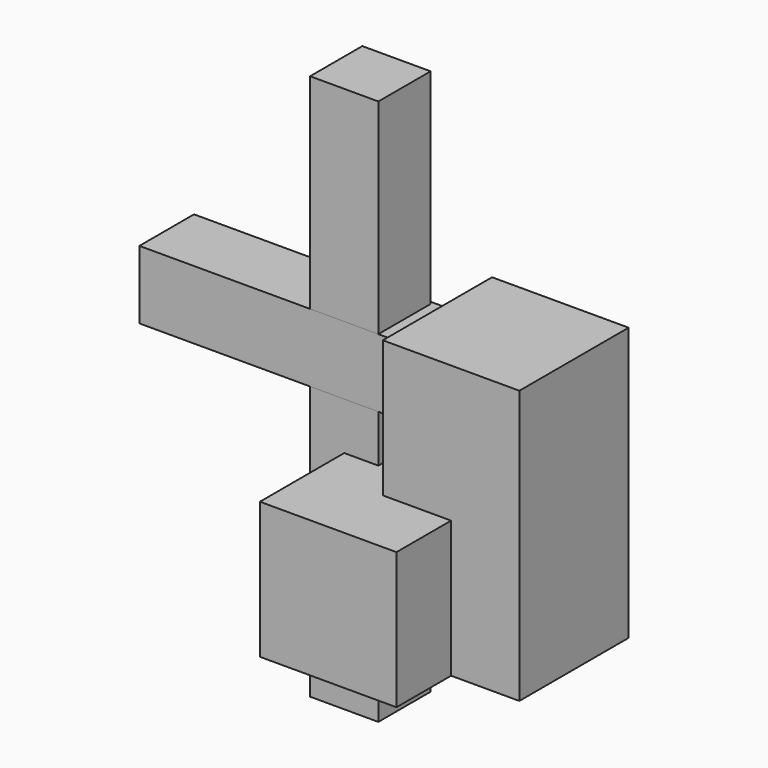
from build123d import *

# Parameters (mm, degrees)
F0_W     = 5
F0_H     = 5
F1_DEPTH = 10
F2_DEPTH = 20
F3_W     = 5
F3_H     = 5
F4_DEPTH = 20
F5_W     = 5
F5_H     = 4.782355
F6_DEPTH = 20


with BuildPart() as f1:
    # F0 (on Top) → F1 (new body)
    with BuildSketch(Plane.XY):
        Polygon((-5, -5), (5, -5), (5, 0), (0, 0), (0, 5), (-5, 5), align=None)
        with Locations((2.5, 2.5)):
            Rectangle(F0_W, F0_H)
    extrude(amount=F1_DEPTH)

    # F0 (on Top) → F2 (join)
    with BuildSketch(Plane.XY):
        Polygon((5, 5), (5, 0), (10, 0), (10, 10), (0, 10), (0, 5), align=None)
        with Locations((2.5, 2.5)):
            Rectangle(F0_W, F0_H)
    extrude(amount=F2_DEPTH)



with BuildPart() as f4:
    # F3 (on face) → F4 (new body)
    with BuildSketch(Plane(origin=(0, 0, 0), x_dir=(0, -1, 0), z_dir=(-1, 0, 0))):
        with Locations((-5.217645, 15.978696)):
            Rectangle(F3_W, F3_H)
    extrude(amount=F4_DEPTH)


with BuildPart() as f1_1:
    add(f1.part)

    add(f4.part)  # F6 merges F4
    # F5 (on face) → F6 (join, symmetric)
    with BuildSketch(Plane(origin=(0, 0, 13.478696), x_dir=(1, 0, 0), z_dir=(0, 0, -1))):
        with Locations((-5, -5.108823)):
            Rectangle(F5_W, F5_H)
    extrude(amount=F6_DEPTH, both=True)


solid = f1_1.part
